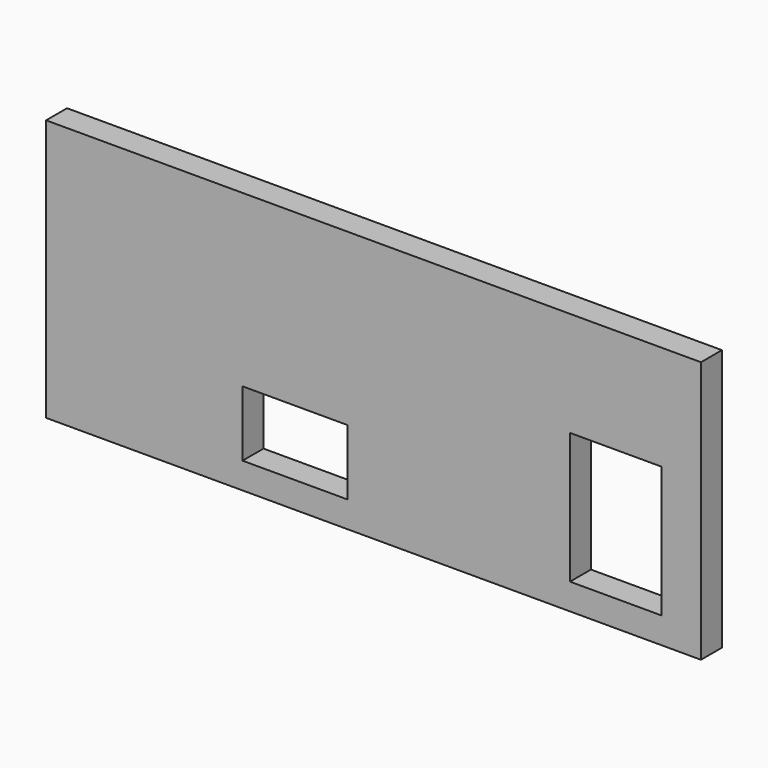
from build123d import *

# Parameters (mm, degrees)
F0_W     = 63.5
F0_H     = 25.4
F0_W_2   = 10.16
F0_H_2   = 6.35
F0_W_3   = 8.89
F0_H_3   = 12.7
F1_DEPTH = 1.27


with BuildPart() as f1:
    # F0 (on Front) → F1 (new body, symmetric)
    with BuildSketch(Plane.XZ):
        with Locations((-31.75, -2.54)):
            Rectangle(F0_W, F0_H)
        with Locations((-39.37, -9.525)):
            Rectangle(F0_W_2, F0_H_2, mode=Mode.SUBTRACT)
        with Locations((-8.255, -6.35)):
            Rectangle(F0_W_3, F0_H_3, mode=Mode.SUBTRACT)
    extrude(amount=F1_DEPTH, both=True)


solid = f1.part
